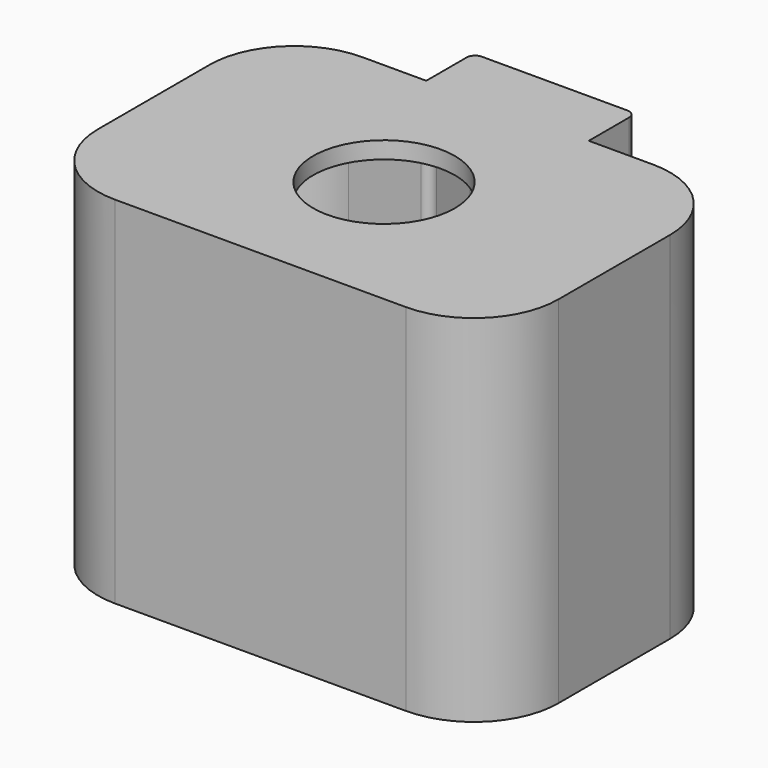
from build123d import *

# Parameters (mm, degrees)
F1_DEPTH = 63.5
F2_W     = 16.383
F2_H     = 6.985
F3_DEPTH = 3.175
F4_R     = 1.5875
F6_DEPTH = 3.175
F7_R     = 13.2842
F8_DEPTH = 3.175


with BuildPart() as f1:
    # F0 (on Top) → F1 (new body)
    with BuildSketch(Plane.XY):
        with BuildLine():
            Line((-15.24, 40.005), (-15.24, 28.956))
            Line((-15.24, 28.956), (-27.305, 28.956))
            ThreePointArc((-27.305, 28.956), (-38.53032, 24.30632), (-43.18, 13.081))
            Line((-43.18, 13.081), (-43.18, -13.081))
            ThreePointArc((-43.18, -13.081), (-38.53032, -24.30632), (-27.305, -28.956))
            Line((-27.305, -28.956), (27.305, -28.956))
            ThreePointArc((27.305, -28.956), (38.53032, -24.30632), (43.18, -13.081))
            Line((43.18, -13.081), (43.18, 13.081))
            ThreePointArc((43.18, 13.081), (38.53032, 24.30632), (27.305, 28.956))
            Line((27.305, 28.956), (15.24, 28.956))
            Line((15.24, 28.956), (15.24, 40.005))
            Line((15.24, 40.005), (-15.24, 40.005))
        make_face()
        with BuildLine():
            Line((12.065, 25.781), (27.305, 25.781))
            ThreePointArc((27.305, 25.781), (36.285256, 22.061256), (40.005, 13.081))
            Line((40.005, 13.081), (40.005, -13.081))
            ThreePointArc((40.005, -13.081), (36.285256, -22.061256), (27.305, -25.781))
            Line((27.305, -25.781), (-27.305, -25.781))
            ThreePointArc((-27.305, -25.781), (-36.285256, -22.061256), (-40.005, -13.081))
            Line((-40.005, -13.081), (-40.005, 13.081))
            ThreePointArc((-40.005, 13.081), (-36.285256, 22.061256), (-27.305, 25.781))
            Line((-27.305, 25.781), (-12.065, 25.781))
            Line((-12.065, 25.781), (-12.065, 36.83))
            Line((-12.065, 36.83), (12.065, 36.83))
            Line((12.065, 36.83), (12.065, 25.781))
        make_face(mode=Mode.SUBTRACT)
    extrude(amount=F1_DEPTH)

    # F2 (on face) → F3 (cut, through all)
    with BuildSketch(Plane(origin=(0, 40.005, 0), x_dir=(-1, 0, 0), z_dir=(0, 1, 0))):
        with Locations((0, 17.8435)):
            Rectangle(F2_W, F2_H)
    extrude(amount=-F3_DEPTH, mode=Mode.SUBTRACT)

    # F4
    f4_edges = [f1.edges().sort_by_distance(p)[0] for p in [
        (-12.065, 25.781, 31.75),
        (-12.065, 36.83, 31.75),
        (12.065, 25.781, 31.75),
        (12.065, 36.83, 31.75),
        (15.24, 40.005, 31.75),
        (-15.24, 40.005, 31.75),
    ]]
    fillet(f4_edges, radius=F4_R)

    # F5 (on face) → F6 (join)
    with BuildSketch(Plane.XY.offset(63.5)):
        with BuildLine():
            Line((13.6525, 40.005), (-13.6525, 40.005))
            ThreePointArc((-13.6525, 40.005), (-14.775032, 39.540032), (-15.24, 38.4175))
            Line((-15.24, 38.4175), (-15.24, 28.956))
            Line((-15.24, 28.956), (-27.305, 28.956))
            ThreePointArc((-27.305, 28.956), (-38.53032, 24.30632), (-43.18, 13.081))
            Line((-43.18, 13.081), (-43.18, -13.081))
            ThreePointArc((-43.18, -13.081), (-38.53032, -24.30632), (-27.305, -28.956))
            Line((-27.305, -28.956), (27.305, -28.956))
            ThreePointArc((27.305, -28.956), (38.53032, -24.30632), (43.18, -13.081))
            Line((43.18, -13.081), (43.18, 13.081))
            ThreePointArc((43.18, 13.081), (38.53032, 24.30632), (27.305, 28.956))
            Line((27.305, 28.956), (15.24, 28.956))
            Line((15.24, 28.956), (15.24, 38.4175))
            ThreePointArc((15.24, 38.4175), (14.775032, 39.540032), (13.6525, 40.005))
        make_face()
    extrude(amount=F6_DEPTH)

    # F7 (on face) → F8 (cut, through all)
    with BuildSketch(Plane.XY.offset(66.675)):
        Circle(F7_R)
    extrude(amount=-F8_DEPTH, mode=Mode.SUBTRACT)


with BuildPart() as f9_1:
    # F9: copy of F1
    add(f1.part)


solid = f1.part
